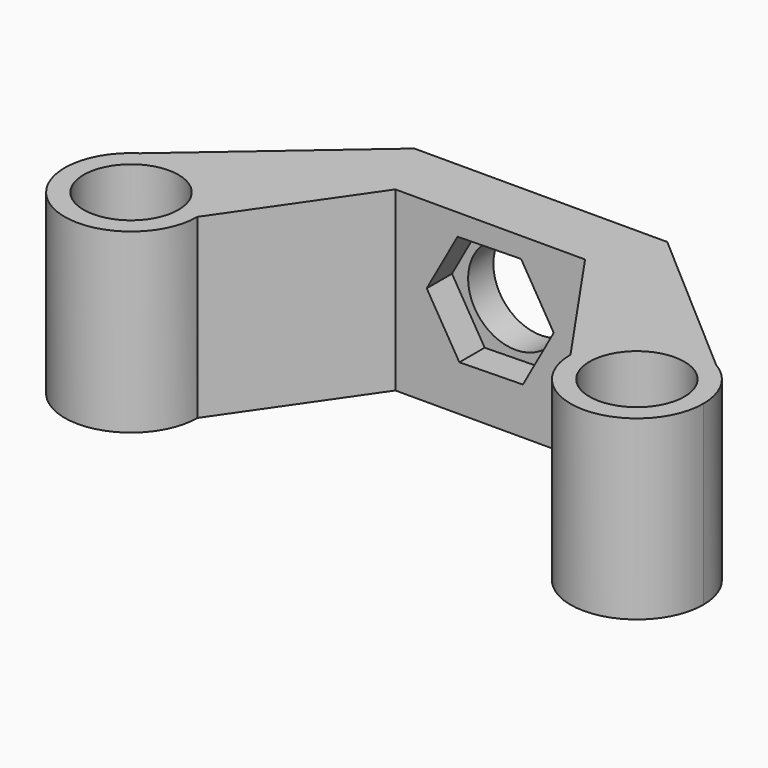
from build123d import *

# Parameters (mm, degrees)
F0_R     = 3.75
F2_DEPTH = 25
F3_DEPTH = 14
F4_R     = 3.75
F6_DEPTH = 25
F7_DEPTH = 2.5


with BuildPart() as f2:
    # F0 (on Top) → F2 (new body)
    with BuildSketch(Plane.XY):
        with Locations((-20, 0)):
            Circle(F0_R)
        with Locations((20, 0)):
            Circle(F0_R)
    extrude(amount=F2_DEPTH)


with BuildPart() as f3:
    # F1 (on Top) → F3 (new body)
    with BuildSketch(Plane.XY):
        with BuildLine():
            ThreePointArc((-22.819472, 4.428666), (-22.525893, -4.60243), (-14.75, 0))
            ThreePointArc((-14.75, 0), (-17.474107, 4.60243), (-22.819472, 4.428666))
        make_face()
        with BuildLine():
            ThreePointArc((-22.819472, 4.428666), (-17.474107, 4.60243), (-14.75, 0))
            Line((-14.75, 0), (-7.5, 10.5))
            Line((-7.5, 10.5), (7.5, 10.5))
            Line((7.5, 10.5), (14.75, 0))
            ThreePointArc((14.75, 0), (17.377467, 4.548057), (22.629931, 4.543783))
            Line((22.629931, 4.543783), (10, 15.5))
            Line((10, 15.5), (-10, 15.5))
            Line((-10, 15.5), (-22.819472, 4.428666))
        make_face()
        with BuildLine():
            ThreePointArc((22.629931, 4.543783), (17.377467, 4.548057), (14.75, 0))
            ThreePointArc((14.75, 0), (20, -5.25), (25.25, 0))
            ThreePointArc((25.25, 0), (24.548057, 2.622533), (22.629931, 4.543783))
        make_face()
    extrude(amount=F3_DEPTH)


with BuildPart() as f6:
    # F4 (on face) → F6 (new body)
    with BuildSketch(Plane(origin=(0, 15.5, 0), x_dir=(-1, 0, 0), z_dir=(0, 1, 0))):
        with Locations((0, 8)):
            Circle(F4_R)
    extrude(amount=-F6_DEPTH)


with BuildPart() as f7:
    # F5 (on face) → F7 (new body)
    with BuildSketch(Plane.XZ.offset(-10.5)):
        Polygon((2.582829, 3.691985), (5.022265, 8.082788), (2.439436, 12.390803), (-2.582829, 12.308015), (-5.022265, 7.917212), (-2.439436, 3.609197), align=None)
    extrude(amount=-F7_DEPTH)


with BuildPart() as f3_1:
    add(f3.part)

    # F8: cut F2, F6, F7
    add(f2.part, mode=Mode.SUBTRACT)
    add(f6.part, mode=Mode.SUBTRACT)
    add(f7.part, mode=Mode.SUBTRACT)


solid = f3_1.part
